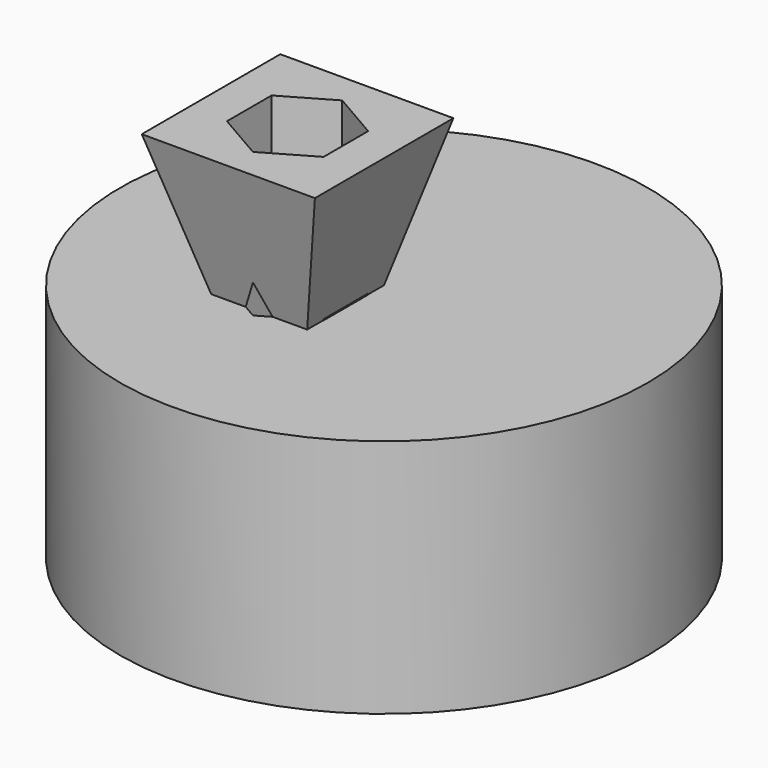
from build123d import *

# Parameters (mm, degrees)
F0_R     = 55
F1_DEPTH = 50
F2_W     = 20
F2_H     = 20
F3_DEPTH = 30
F3_TAPER = -15
F5_DEPTH = 100


with BuildPart() as f1:
    # F0 (on Top) → F1 (new body)
    with BuildSketch(Plane.XY):
        Circle(F0_R)
    extrude(amount=F1_DEPTH)

    # F2 (on face) → F3 (join)
    with BuildSketch(Plane.XY.offset(50)):
        with Locations((-10, -10)):
            Rectangle(F2_W, F2_H)
    extrude(amount=F3_DEPTH, taper=F3_TAPER)

    # F4 (on face) → F5 (cut)
    with BuildSketch(Plane.XY.offset(80)):
        Polygon((0.0648668621, -4.1890464078), (-10, 1.6219071844), (-20.0648668621, -4.1890464078), (-20.0648668621, -15.8109535922), (-10, -21.6219071844), (0.0648668621, -15.8109535922), align=None)
    extrude(amount=-F5_DEPTH, mode=Mode.SUBTRACT)


solid = f1.part
